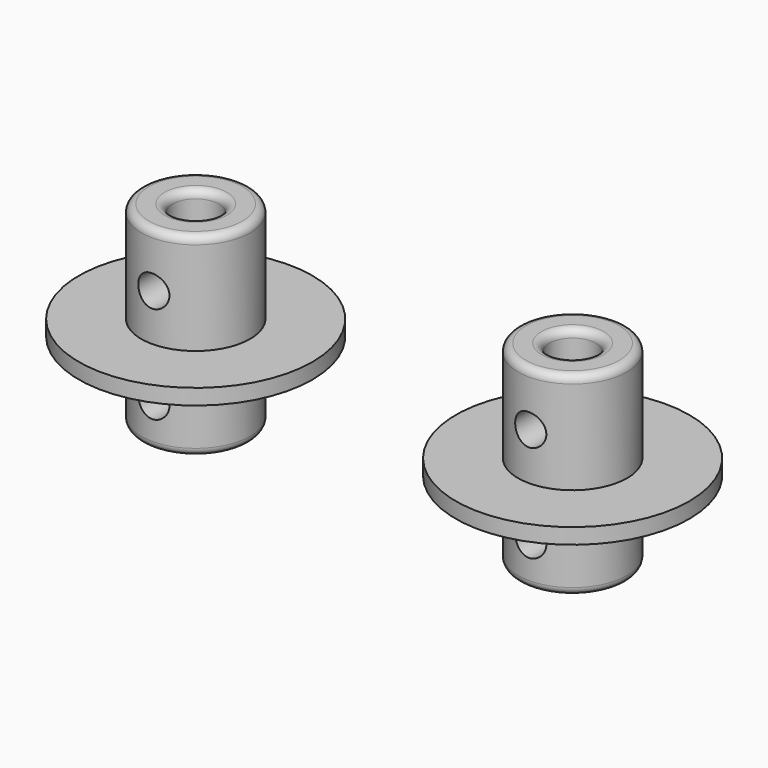
from build123d import *

# Parameters (mm, degrees)
F0_R           = 3.5
F0_R_2         = 1.5
F1_DEPTH       = 12.5
F2_R           = 0.5
F4_R           = 7.5
F4_R_2         = 1.5
F5_DEPTH       = 1
F6_R           = 0.5
F9_R           = 1
F10_DEPTH      = 4
F10_DEPTH_BACK = 4.2
F11_R          = 1
F12_DEPTH      = 7
F12_DEPTH_BACK = 7


with BuildPart() as f1:
    # F0 (on Top) → F1 (new body)
    with BuildSketch(Plane.XY):
        with Locations((-44.4484017789, 33.0875441432)):
            Circle(F0_R)
        with Locations((-44.4484017789, 33.0875441432)):
            Circle(F0_R_2, mode=Mode.SUBTRACT)
    extrude(amount=F1_DEPTH)

    # F2
    f2_edges = [f1.edges().sort_by_distance(p)[0] for p in [
        (-47.948402, 33.087544, 12.5),
        (-47.948402, 33.087544, 0),
    ]]
    fillet(f2_edges, radius=F2_R)

    # F4 (on offset) → F5 (join)
    with BuildSketch(Plane.XY.offset(5)):
        with Locations((-44.4484017789, 33.0875441432)):
            Circle(F4_R)
        with Locations((-44.4484017789, 33.0875441432)):
            Circle(F4_R_2, mode=Mode.SUBTRACT)
    extrude(amount=F5_DEPTH)

    # F6
    f6_edges = [f1.edges().sort_by_distance(p)[0] for p in [
        (-45.948402, 33.087544, 12.5),
        (-45.948402, 33.087544, 0),
    ]]
    fillet(f6_edges, radius=F6_R)


with BuildPart() as f7_1:
    # F7: copy of F1
    add(f1.part.moved(Location((24.2, 0, 0))))


with BuildPart() as f10_tool:
    # F9 (on offset) → F10 (new body, two sides)
    with BuildSketch(Plane.XZ.offset(-33.1)) as f10_sk:
        with Locations((-44.4484017789, 9)):
            Circle(F9_R)
        with Locations((-20.2508848161, 9.0252887458)):
            Circle(F9_R)
    extrude(amount=-F10_DEPTH)
    extrude(f10_sk.sketch, amount=F10_DEPTH_BACK)


with BuildPart() as f1_1:
    add(f1.part)

    # F10: cut by f10_tool
    add(f10_tool.part, mode=Mode.SUBTRACT)


with BuildPart() as f7_1_1:
    add(f7_1.part)

    # F10: cut by f10_tool
    add(f10_tool.part, mode=Mode.SUBTRACT)


with BuildPart() as f12_tool:
    # F11 (on offset) → F12 (new body, two sides)
    with BuildSketch(Plane.XZ.offset(-33.1)) as f12_sk:
        with Locations((-20.2508848161, 9.0252887458)):
            Circle(F11_R)
        with Locations((-44.4484017789, 2.755262898)):
            Circle(F11_R)
        with Locations((-20.2508848161, 2.7805516438)):
            Circle(F11_R)
    extrude(amount=F12_DEPTH)
    extrude(f12_sk.sketch, amount=-F12_DEPTH_BACK)


with BuildPart() as f1_2:
    add(f1_1.part)

    # F12: cut by f12_tool
    add(f12_tool.part, mode=Mode.SUBTRACT)


with BuildPart() as f7_1_2:
    add(f7_1_1.part)

    # F12: cut by f12_tool
    add(f12_tool.part, mode=Mode.SUBTRACT)


solid = Compound([f1_2.part, f7_1_2.part])
